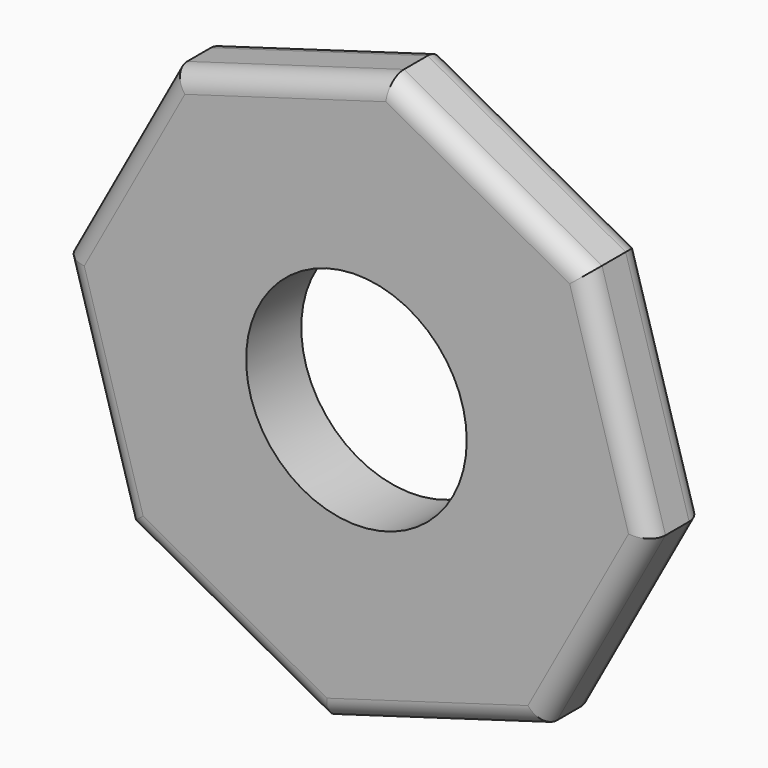
from build123d import *

# Parameters (mm, degrees)
F0_R     = 13.2
F0_R_2   = 11.2
F1_DEPTH = 7
F2_R     = 2
F3_R     = 2


with BuildPart() as f1:
    # F0 (on Front) → F1 (new body)
    with BuildSketch(Plane.XZ):
        Polygon((18.775388, -23.340316), (29.7803, -3.227892), (23.340316, 18.775388), (3.227892, 29.7803), (-18.775388, 23.340316), (-29.7803, 3.227892), (-23.340316, -18.775388), (-3.227892, -29.7803), align=None)
        Circle(F0_R, mode=Mode.SUBTRACT)
        Circle(F0_R)
        Circle(F0_R_2, mode=Mode.SUBTRACT)
    extrude(amount=F1_DEPTH)

    # F2
    f2_edges = [f1.edges().sort_by_distance(p)[0] for p in [
        (13.284104, 0, 24.277844),
        (26.560308, 0, 7.773748),
        (24.277844, 0, -13.284104),
        (7.773748, 0, -26.560308),
        (-13.284104, 0, -24.277844),
        (-26.560308, 0, -7.773748),
        (-24.277844, 0, 13.284104),
        (-7.773748, 0, 26.560308),
    ]]
    fillet(f2_edges, radius=F2_R)

    # F3
    f3_edges = [f1.edges().sort_by_distance(p)[0] for p in [
        (-7.773748, -7, 26.560308),
        (-24.277844, -7, 13.284104),
        (-26.560308, -7, -7.773748),
        (-13.284104, -7, -24.277844),
        (7.773748, -7, -26.560308),
        (24.277844, -7, -13.284104),
        (26.560308, -7, 7.773748),
        (13.284104, -7, 24.277844),
    ]]
    fillet(f3_edges, radius=F3_R)


solid = f1.part
